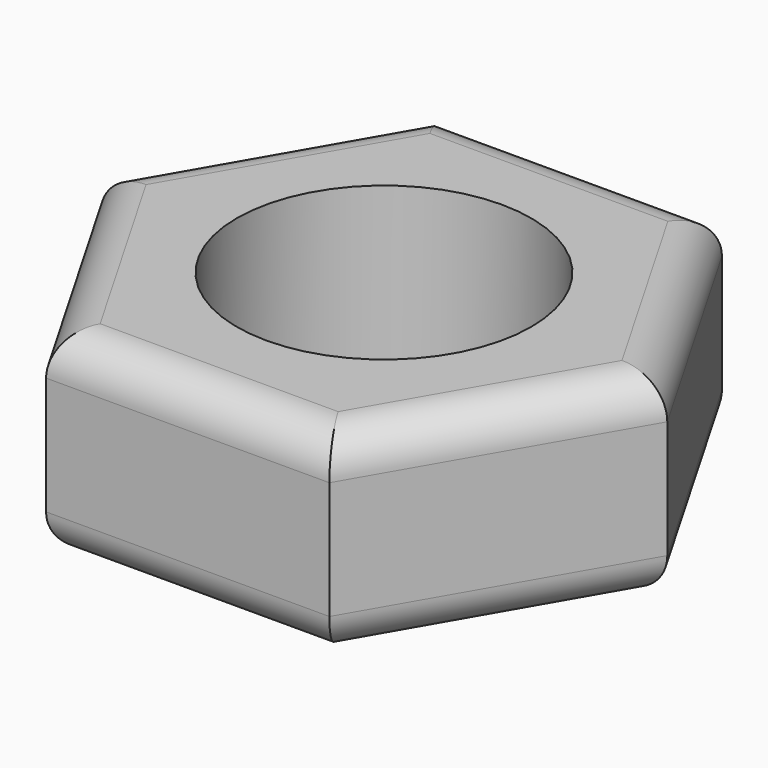
from build123d import *

# Parameters (mm, degrees)
F0_R     = 19.05
F1_DEPTH = 25.4
F2_R     = 5.08


with BuildPart() as f1:
    # F0 (on Top) → F1 (new body)
    with BuildSketch(Plane.XY):
        Polygon((18.330871, -31.75), (36.661742, 0), (18.330871, 31.75), (-18.330871, 31.75), (-36.661742, 0), (-18.330871, -31.75), align=None)
        Circle(F0_R, mode=Mode.SUBTRACT)
    extrude(amount=F1_DEPTH)

    # F2
    f2_edges = [f1.edges().sort_by_distance(p)[0] for p in [
        (-27.496307, -15.875, 25.4),
        (0, -31.75, 25.4),
        (27.496307, -15.875, 25.4),
        (27.496307, 15.875, 25.4),
        (0, 31.75, 25.4),
        (-27.496307, 15.875, 25.4),
        (-27.496307, 15.875, 0),
        (0, 31.75, 0),
        (27.496307, 15.875, 0),
        (27.496307, -15.875, 0),
        (0, -31.75, 0),
        (-27.496307, -15.875, 0),
    ]]
    fillet(f2_edges, radius=F2_R)


solid = f1.part
